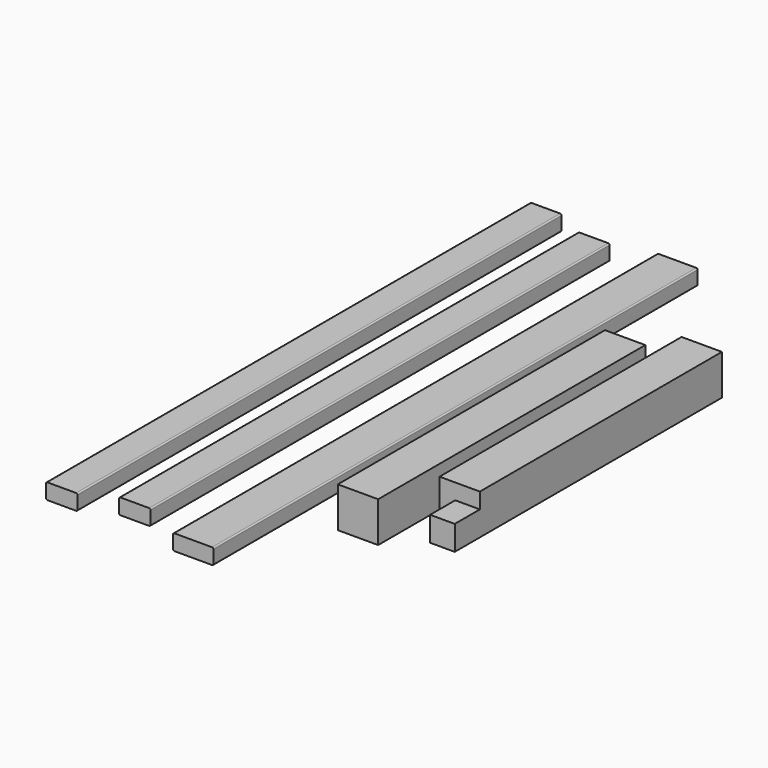
from build123d import *

# Parameters (mm, degrees)
F0_W      = 90
F0_H      = 35
F1_DEPTH  = 675
F2_R      = 3
F3_W      = 90
F3_H      = 90
F4_DEPTH  = 372.5
F5_W      = 70
F5_H      = 35
F6_DEPTH  = 640
F7_R      = 3
F8_W      = 70
F8_H      = 35
F9_DEPTH  = 675
F10_R     = 3
F11_W     = 90
F11_H     = 90
F12_DEPTH = 372.5
F13_W     = 35
F13_H     = 35
F13_W_2   = 55
F13_H_2   = 55
F14_DEPTH = 70


with BuildPart() as f1:
    # F0 (on Front) → F1 (new body, symmetric)
    with BuildSketch(Plane.XZ):
        with Locations((0.47596, 0.143029)):
            Rectangle(F0_W, F0_H)
    extrude(amount=F1_DEPTH, both=True)

    # F2
    f2_edges = [f1.edges().sort_by_distance(p)[0] for p in [
        (45.47596, 0, 17.643029),
        (45.47596, 0, -17.356971),
        (-44.52404, 0, 17.643029),
        (-44.52404, 0, -17.356971),
    ]]
    fillet(f2_edges, radius=F2_R)


with BuildPart() as f4:
    # F3 (on Front) → F4 (new body, symmetric)
    with BuildSketch(Plane.XZ):
        with Locations((125.915706, -14.301103)):
            Rectangle(F3_W, F3_H)
    extrude(amount=F4_DEPTH, both=True)


with BuildPart() as f6:
    # F5 (on Front) → F6 (new body, symmetric)
    with BuildSketch(Plane.XZ):
        with Locations((-157.855245, 8.089506)):
            Rectangle(F5_W, F5_H)
    extrude(amount=F6_DEPTH, both=True)

    # F7
    f7_edges = [f6.edges().sort_by_distance(p)[0] for p in [
        (-122.855245, 0, 25.589506),
        (-122.855245, 0, -9.410494),
        (-192.855245, 0, 25.589506),
        (-192.855245, 0, -9.410494),
    ]]
    fillet(f7_edges, radius=F7_R)


with BuildPart() as f9:
    # F8 (on Front) → F9 (new body, symmetric)
    with BuildSketch(Plane.XZ):
        with Locations((-292.868074, 8.09309)):
            Rectangle(F8_W, F8_H)
    extrude(amount=F9_DEPTH, both=True)

    # F10
    f10_edges = [f9.edges().sort_by_distance(p)[0] for p in [
        (-327.868074, 0, -9.40691),
        (-327.868074, 0, 25.59309),
        (-257.868074, 0, 25.59309),
        (-257.868074, 0, -9.40691),
    ]]
    fillet(f10_edges, radius=F10_R)


with BuildPart() as f12:
    # F11 (on Front) → F12 (new body, symmetric)
    with BuildSketch(Plane.XZ):
        with Locations((296.807408, 27.882424)):
            Rectangle(F11_W, F11_H)
    extrude(amount=F12_DEPTH, both=True)

    # F13 (on face) → F14 (cut)
    with BuildSketch(Plane.XZ.offset(372.5)):
        with Locations((269.307408, 55.382424)):
            Rectangle(F13_W, F13_H)
        with Locations((314.307408, 55.382424)):
            Rectangle(F13_W_2, F13_H)
        with Locations((269.307408, 10.382424)):
            Rectangle(F13_W, F13_H_2)
    extrude(amount=-F14_DEPTH, mode=Mode.SUBTRACT)


solid = Compound([f1.part, f4.part, f6.part, f9.part, f12.part])
